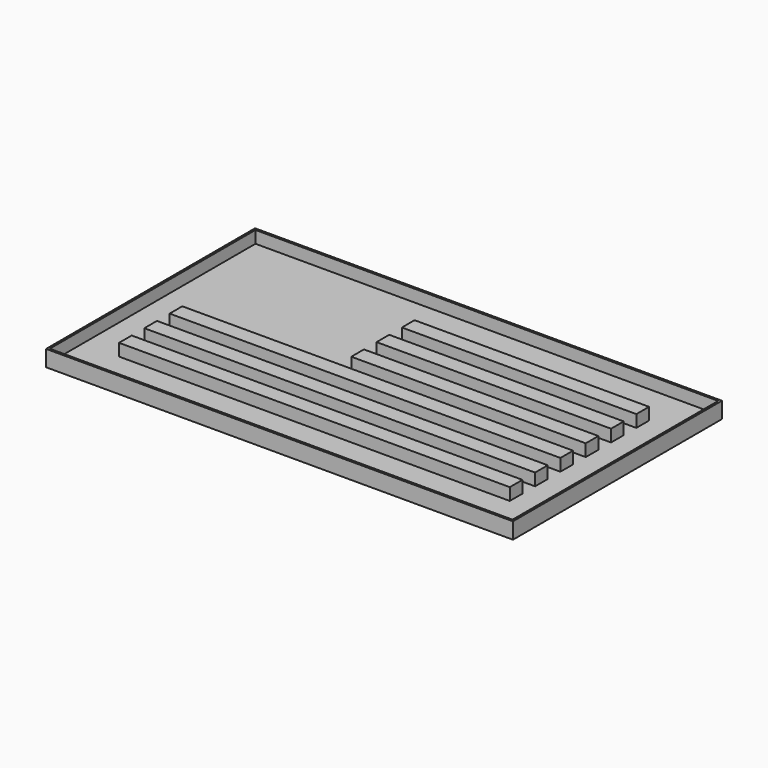
from build123d import *

# Parameters (mm, degrees)
F0_W     = 48.26
F0_H     = 1.95326
F0_W_2   = 28.956
F1_DEPTH = 2
F2_W     = 57.658
F2_H     = 32.258
F2_W_2   = 57.15
F2_H_2   = 31.75
F3_DEPTH = 2
F4_W     = 57.15
F4_H     = 31.75
F5_DEPTH = 0.5


with BuildPart() as f1:
    # F0 (on Top) → F1 (new body)
    with BuildSketch(Plane.XY):
        with Locations((0, -9.76757)):
            Rectangle(F0_W, F0_H)
        with Locations((0, -5.86105)):
            Rectangle(F0_W, F0_H)
        Polygon((-4.826, -0.9779), (-24.13, -0.9779), (-24.13, -2.93116), (24.13, -2.93116), (24.13, -0.9779), align=None)
        with Locations((9.652, 1.95707)):
            Rectangle(F0_W_2, F0_H)
        with Locations((9.652, 5.86359)):
            Rectangle(F0_W_2, F0_H)
        with Locations((9.652, 9.77011)):
            Rectangle(F0_W_2, F0_H)
    extrude(amount=F1_DEPTH)


with BuildPart() as f3:
    # F2 (on Top) → F3 (new body)
    with BuildSketch(Plane.XY):
        Rectangle(F2_W, F2_H)
        Rectangle(F2_W_2, F2_H_2, mode=Mode.SUBTRACT)
    extrude(amount=F3_DEPTH)


with BuildPart() as f5:
    # F4 (on Top) → F5 (new body)
    with BuildSketch(Plane.XY):
        Rectangle(F4_W, F4_H)
    extrude(amount=F5_DEPTH)


solid = Compound([f1.part, f3.part, f5.part])
